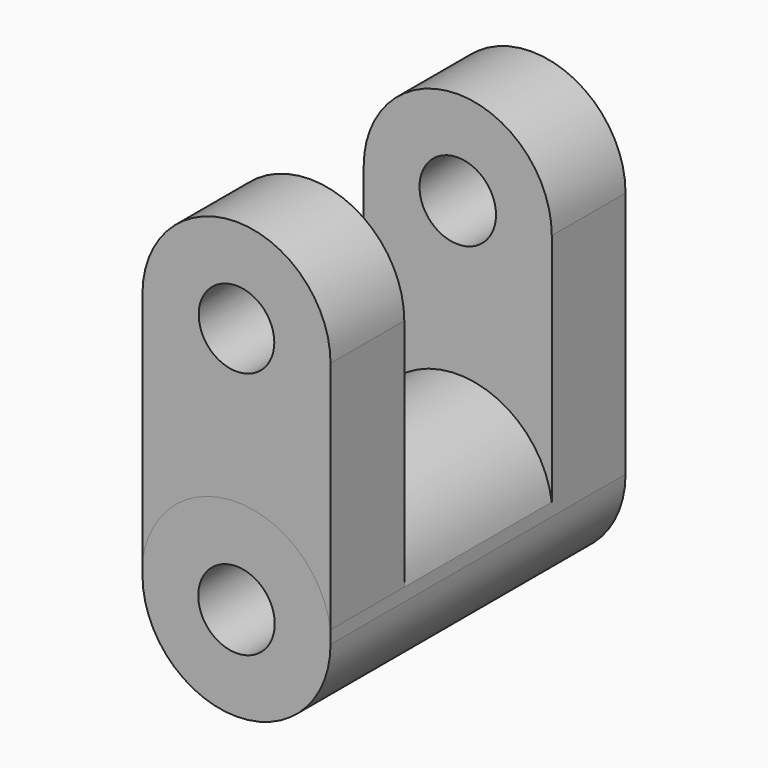
from build123d import *

# Parameters (mm, degrees)
F0_R     = 10.5384910473
F1_DEPTH = 25.4
F2_R     = 10.5384910473
F3_DEPTH = 76.2
F4_R     = 10.414
F5_DEPTH = 25.4


with BuildPart() as f1:
    # F0 (on Front) → F1 (new body)
    with BuildSketch(Plane.XZ):
        with BuildLine():
            Line((-39.8845039308, 50.2472445369), (-39.8845039308, 32.8956767917))
            Line((-39.8845039308, 32.8956767917), (-39.8845039308, -17.9540514946))
            ThreePointArc((-39.8845039308, -17.9540514946), (-13.977650553, -43.8609048724), (11.9292028248, -17.9540514946))
            Line((11.9292028248, -17.9540514946), (11.9292028248, 50.2472445369))
            ThreePointArc((11.9292028248, 50.2472445369), (-13.977650553, 76.1540979147), (-39.8845039308, 50.2472445369))
        make_face()
        with Locations((-13.977650553, -17.9540514946)):
            Circle(F0_R, mode=Mode.SUBTRACT)
        with Locations((-13.977650553, 50.2472445369)):
            Circle(F0_R, mode=Mode.SUBTRACT)
    extrude(amount=-F1_DEPTH)

    # F2 (on face) → F3 (join)
    with BuildSketch(Plane.XZ):
        with BuildLine():
            Line((11.9292028248, -17.9540514946), (11.9292028248, -14.3777139648))
            ThreePointArc((11.9292028248, -14.3777139648), (-13.977650553, 8.1984864715), (-39.8845039308, -14.3777139648))
            Line((-39.8845039308, -14.3777139648), (-39.8845039308, -17.9540514946))
            ThreePointArc((-39.8845039308, -17.9540514946), (-13.977650553, -43.8609048724), (11.9292028248, -17.9540514946))
        make_face()
        with Locations((-13.977650553, -17.9540514946)):
            Circle(F2_R, mode=Mode.SUBTRACT)
    extrude(amount=F3_DEPTH)


with BuildPart() as f5:
    # F4 (on face) → F5 (new body)
    with BuildSketch(Plane.XZ.offset(76.2)):
        with BuildLine():
            ThreePointArc((-39.8845039308, -14.3777139648), (-13.977650553, 8.1984864715), (11.9292028248, -14.3777139648))
            Line((11.9292028248, -14.3777139648), (11.9292028248, 50.2449485054))
            ThreePointArc((11.9292028248, 50.2449485054), (-13.977650553, 76.1518018832), (-39.8845039308, 50.2449485054))
            Line((-39.8845039308, 50.2449485054), (-39.8845039308, -14.3777139648))
        make_face()
        with Locations((-13.977650553, 50.2449485054)):
            Circle(F4_R, mode=Mode.SUBTRACT)
    extrude(amount=-F5_DEPTH)


solid = Compound([f1.part, f5.part])
